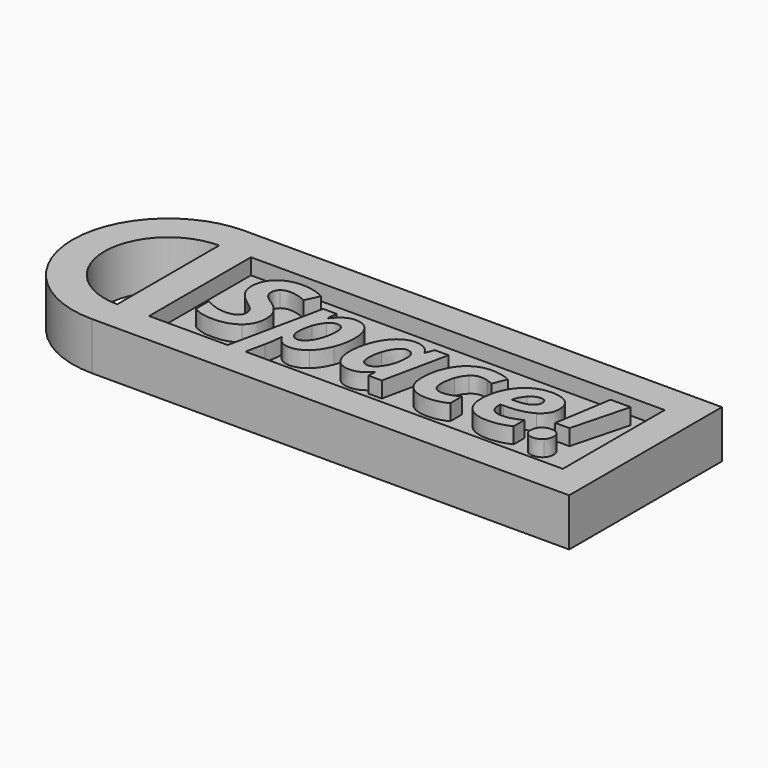
from build123d import *

# Parameters (mm, degrees)
F1_DEPTH = 3
F3_DEPTH = 1


with BuildPart() as f1:
    # F0 (on Top) → F1 (new body)
    with BuildSketch(Plane.XY):
        with BuildLine():
            ThreePointArc((0, 12), (-6, 6), (0, 0))
            Line((0, 0), (0, 2))
            ThreePointArc((0, 2), (-4, 6), (0, 10))
            Line((0, 10), (0, 12))
        make_face()
        with BuildLine():
            Line((0, 2), (0, 0))
            Line((0, 0), (30, 0))
            Line((30, 0), (30, 12))
            Line((30, 12), (0, 12))
            Line((0, 12), (0, 10))
            ThreePointArc((0, 10), (2.8284271247, 8.8284271247), (4, 6))
            ThreePointArc((4, 6), (2.8284271247, 3.1715728753), (0, 2))
        make_face()
        with BuildLine():
            Line((0, 10), (0, 2))
            ThreePointArc((0, 2), (2.8284271247, 3.1715728753), (4, 6))
            ThreePointArc((4, 6), (2.8284271247, 8.8284271247), (0, 10))
        make_face()
    extrude(amount=F1_DEPTH)


with BuildPart() as f3:
    # F2 (on face) → F3 (new body)
    with BuildSketch(Plane.XY.offset(3)):
        with BuildLine():
            Line((28.0002027975, 10), (2, 10))
            Line((2, 10), (2, 2))
            Line((2, 2), (6.9363087527, 2))
            Line((6.9363087527, 2), (8.1953882392, 7.9267427279))
            Line((8.1953882392, 7.9267427279), (9.0481484243, 7.9267427279))
            Line((9.0481484243, 7.9267427279), (8.9852884941, 7.2969573895))
            Line((8.9852884941, 7.2969573895), (9.0184975138, 7.2969573895))
            add(Edge.make_bspline(
                [(9.0184975138, 7.2969573895), (9.5296792103, 8.0038350951), (10.1938596047, 8.0038350951)],
                knots=[0, 0, 0, 1, 1, 1], degree=2))
            add(Edge.make_bspline(
                [(10.1938596047, 8.0038350951), (10.7346922117, 8.0038350951), (11.0478058262, 7.6059198766)],
                knots=[0, 0, 0, 1, 1, 1], degree=2))
            add(Edge.make_bspline(
                [(11.0478058262, 7.6059198766), (11.3609194408, 7.2080046581), (11.3609194408, 6.4916386612)],
                knots=[0, 0, 0, 1, 1, 1], degree=2))
            add(Edge.make_bspline(
                [(11.3609194408, 6.4916386612), (11.3609194408, 5.7847609557), (11.1071076471, 5.1300688525)],
                knots=[0, 0, 0, 1, 1, 1], degree=2))
            add(Edge.make_bspline(
                [(11.1071076471, 5.1300688525), (10.8532958535, 4.4753767494), (10.4120903058, 4.091693968)],
                knots=[0, 0, 0, 1, 1, 1], degree=2))
            add(Edge.make_bspline(
                [(10.4120903058, 4.091693968), (9.970884758, 3.7080111865), (9.4407264789, 3.7080111865)],
                knots=[0, 0, 0, 1, 1, 1], degree=2))
            add(Edge.make_bspline(
                [(9.4407264789, 3.7080111865), (9.1335430464, 3.7080111865), (8.9111612179, 3.8455914111)],
                knots=[0, 0, 0, 1, 1, 1], degree=2))
            add(Edge.make_bspline(
                [(8.9111612179, 3.8455914111), (8.6887793894, 3.9831716357), (8.5001995988, 4.3128897601)],
                knots=[0, 0, 0, 1, 1, 1], degree=2))
            Line((8.5001995988, 4.3128897601), (8.4705486884, 4.3128897601))
            add(Edge.make_bspline(
                [(8.4705486884, 4.3128897601), (8.4254793045, 3.72342966), (8.3104337718, 3.219364182)],
                knots=[0, 0, 0, 1, 1, 1], degree=2))
            Line((8.3104337718, 3.219364182), (8.0523369318, 2))
            Line((8.0523369318, 2), (28.0002027975, 2))
            Line((28.0002027975, 2), (28.0002027975, 10))
        make_face()
        with BuildLine():
            add(Edge.make_bspline(
                [(14.3853123085, 4.3200059786), (13.888363049, 3.7080111865), (13.202833999, 3.7080111865)],
                knots=[0, 0, 0, 1, 1, 1], degree=2))
            add(Edge.make_bspline(
                [(13.202833999, 3.7080111865), (12.6572572464, 3.7080111865), (12.3441436319, 4.1029613139)],
                knots=[0, 0, 0, 1, 1, 1], degree=2))
            add(Edge.make_bspline(
                [(12.3441436319, 4.1029613139), (12.0310300173, 4.4979114414), (12.0310300173, 5.2095332926)],
                knots=[0, 0, 0, 1, 1, 1], degree=2))
            add(Edge.make_bspline(
                [(12.0310300173, 5.2095332926), (12.0310300173, 5.9436898358), (12.2978882115, 6.6090562667)],
                knots=[0, 0, 0, 1, 1, 1], degree=2))
            add(Edge.make_bspline(
                [(12.2978882115, 6.6090562667), (12.5647464057, 7.2744226976), (12.998835735, 7.6391288963)],
                knots=[0, 0, 0, 1, 1, 1], degree=2))
            add(Edge.make_bspline(
                [(12.998835735, 7.6391288963), (13.4329250642, 8.0038350951), (13.9512229792, 8.0038350951)],
                knots=[0, 0, 0, 1, 1, 1], degree=2))
            add(Edge.make_bspline(
                [(13.9512229792, 8.0038350951), (14.3105920141, 8.0038350951), (14.5721130444, 7.8484643242)],
                knots=[0, 0, 0, 1, 1, 1], degree=2))
            add(Edge.make_bspline(
                [(14.5721130444, 7.8484643242), (14.8336340747, 7.6930935534), (14.9783305178, 7.3965844487)],
                knots=[0, 0, 0, 1, 1, 1], degree=2))
            Line((14.9783305178, 7.3965844487), (15.0079814283, 7.3965844487))
            Line((15.0079814283, 7.3965844487), (15.2190959108, 7.9267427279))
            Line((15.2190959108, 7.9267427279), (16.0789723144, 7.9267427279))
            Line((16.0789723144, 7.9267427279), (15.1965612188, 3.7827314809))
            Line((15.1965612188, 3.7827314809), (14.3473591431, 3.7827314809))
            Line((14.3473591431, 3.7827314809), (14.3995447455, 4.3200059786))
            Line((14.3995447455, 4.3200059786), (14.3853123085, 4.3200059786))
        make_face(mode=Mode.SUBTRACT)
        with BuildLine():
            add(Edge.make_bspline(
                [(19.3287121016, 4.0009621819), (18.7653448027, 3.7080111865), (18.083373862, 3.7080111865)],
                knots=[0, 0, 0, 1, 1, 1], degree=2))
            add(Edge.make_bspline(
                [(18.083373862, 3.7080111865), (17.338542991, 3.7080111865), (16.9400347543, 4.1065194232)],
                knots=[0, 0, 0, 1, 1, 1], degree=2))
            add(Edge.make_bspline(
                [(16.9400347543, 4.1065194232), (16.5415265177, 4.5050276599), (16.5415265177, 5.2320679846)],
                knots=[0, 0, 0, 1, 1, 1], degree=2))
            add(Edge.make_bspline(
                [(16.5415265177, 5.2320679846), (16.5415265177, 6.0172240937), (16.8178730032, 6.6606488509)],
                knots=[0, 0, 0, 1, 1, 1], degree=2))
            add(Edge.make_bspline(
                [(16.8178730032, 6.6606488509), (17.0942194888, 7.304073608), (17.5947268575, 7.6539543516)],
                knots=[0, 0, 0, 1, 1, 1], degree=2))
            add(Edge.make_bspline(
                [(17.5947268575, 7.6539543516), (18.0952342262, 8.0038350951), (18.7356938923, 8.0038350951)],
                knots=[0, 0, 0, 1, 1, 1], degree=2))
            add(Edge.make_bspline(
                [(18.7356938923, 8.0038350951), (19.4105486145, 8.0038350951), (19.9513812214, 7.7369769009)],
                knots=[0, 0, 0, 1, 1, 1], degree=2))
            Line((19.9513812214, 7.7369769009), (19.6109887693, 6.8889608615))
            add(Edge.make_bspline(
                [(19.6109887693, 6.8889608615), (19.4105486145, 6.9743554836), (19.2178176965, 7.0372154138)],
                knots=[0, 0, 0, 1, 1, 1], degree=2))
            add(Edge.make_bspline(
                [(19.2178176965, 7.0372154138), (19.0250867784, 7.100075344), (18.7807632762, 7.100075344)],
                knots=[0, 0, 0, 1, 1, 1], degree=2))
            add(Edge.make_bspline(
                [(18.7807632762, 7.100075344), (18.4652775888, 7.100075344), (18.2114657952, 6.8628680603)],
                knots=[0, 0, 0, 1, 1, 1], degree=2))
            add(Edge.make_bspline(
                [(18.2114657952, 6.8628680603), (17.9576540016, 6.6256607765), (17.8147366131, 6.2123270846)],
                knots=[0, 0, 0, 1, 1, 1], degree=2))
            add(Edge.make_bspline(
                [(17.8147366131, 6.2123270846), (17.6718192247, 5.7989933927), (17.6718192247, 5.3245788252)],
                knots=[0, 0, 0, 1, 1, 1], degree=2))
            add(Edge.make_bspline(
                [(17.6718192247, 5.3245788252), (17.6718192247, 4.9687678996), (17.8408294144, 4.7890833822)],
                knots=[0, 0, 0, 1, 1, 1], degree=2))
            add(Edge.make_bspline(
                [(17.8408294144, 4.7890833822), (18.009839604, 4.6093988647), (18.309906818, 4.6093988647)],
                knots=[0, 0, 0, 1, 1, 1], degree=2))
            add(Edge.make_bspline(
                [(18.309906818, 4.6093988647), (18.5909974492, 4.6093988647), (18.8323558604, 4.6965725415)],
                knots=[0, 0, 0, 1, 1, 1], degree=2))
            add(Edge.make_bspline(
                [(18.8323558604, 4.6965725415), (19.0737142716, 4.7837462183), (19.3287121016, 4.9130241879)],
                knots=[0, 0, 0, 1, 1, 1], degree=2))
            Line((19.3287121016, 4.9130241879), (19.3287121016, 4.0009621819))
        make_face(mode=Mode.SUBTRACT)
        with BuildLine():
            add(Edge.make_bspline(
                [(24.3480182256, 3.8218706827), (24.196205564, 3.9606369437), (24.196205564, 4.2085185552)],
                knots=[0, 0, 0, 1, 1, 1], degree=2))
            add(Edge.make_bspline(
                [(24.196205564, 4.2085185552), (24.196205564, 4.5429808253), (24.3948666641, 4.7428279618)],
                knots=[0, 0, 0, 1, 1, 1], degree=2))
            add(Edge.make_bspline(
                [(24.3948666641, 4.7428279618), (24.5935277643, 4.9426750984), (24.9528967991, 4.9426750984)],
                knots=[0, 0, 0, 1, 1, 1], degree=2))
            add(Edge.make_bspline(
                [(24.9528967991, 4.9426750984), (25.2043365199, 4.9426750984), (25.3561491815, 4.8021297828)],
                knots=[0, 0, 0, 1, 1, 1], degree=2))
            add(Edge.make_bspline(
                [(25.3561491815, 4.8021297828), (25.5079618431, 4.6615844672), (25.5079618431, 4.4054006007)],
                knots=[0, 0, 0, 1, 1, 1], degree=2))
            add(Edge.make_bspline(
                [(25.5079618431, 4.4054006007), (25.5079618431, 4.0827986948), (25.3045565973, 3.8829515583)],
                knots=[0, 0, 0, 1, 1, 1], degree=2))
            add(Edge.make_bspline(
                [(25.3045565973, 3.8829515583), (25.1011513515, 3.6831044217), (24.7714332271, 3.6831044217)],
                knots=[0, 0, 0, 1, 1, 1], degree=2))
            add(Edge.make_bspline(
                [(24.7714332271, 3.6831044217), (24.4998308872, 3.6831044217), (24.3480182256, 3.8218706827)],
                knots=[0, 0, 0, 1, 1, 1], degree=2))
        make_face(mode=Mode.SUBTRACT)
        with BuildLine():
            add(Edge.make_bspline(
                [(23.2912597765, 4.0270549831), (22.6543582197, 3.7080111865), (21.8466674185, 3.7080111865)],
                knots=[0, 0, 0, 1, 1, 1], degree=2))
            add(Edge.make_bspline(
                [(21.8466674185, 3.7080111865), (21.0674414914, 3.7080111865), (20.6375032897, 4.1272750605)],
                knots=[0, 0, 0, 1, 1, 1], degree=2))
            add(Edge.make_bspline(
                [(20.6375032897, 4.1272750605), (20.2075650879, 4.5465389345), (20.2075650879, 5.3103463882)],
                knots=[0, 0, 0, 1, 1, 1], degree=2))
            add(Edge.make_bspline(
                [(20.2075650879, 5.3103463882), (20.2075650879, 6.0765259147), (20.5135624839, 6.7086833258)],
                knots=[0, 0, 0, 1, 1, 1], degree=2))
            add(Edge.make_bspline(
                [(20.5135624839, 6.7086833258), (20.8195598799, 7.340840737), (21.3420089224, 7.672337916)],
                knots=[0, 0, 0, 1, 1, 1], degree=2))
            add(Edge.make_bspline(
                [(21.3420089224, 7.672337916), (21.8644579648, 8.0038350951), (22.5238942136, 8.0038350951)],
                knots=[0, 0, 0, 1, 1, 1], degree=2))
            add(Edge.make_bspline(
                [(22.5238942136, 8.0038350951), (23.1809583896, 8.0038350951), (23.547443643, 7.7019888265)],
                knots=[0, 0, 0, 1, 1, 1], degree=2))
            add(Edge.make_bspline(
                [(23.547443643, 7.7019888265), (23.9139288963, 7.400142558), (23.9139288963, 6.873542388)],
                knots=[0, 0, 0, 1, 1, 1], degree=2))
            add(Edge.make_bspline(
                [(23.9139288963, 6.873542388), (23.9139288963, 6.1808971195), (23.295410904, 5.8049235748)],
                knots=[0, 0, 0, 1, 1, 1], degree=2))
            add(Edge.make_bspline(
                [(23.295410904, 5.8049235748), (22.6768929116, 5.4289500301), (21.5276236219, 5.4289500301)],
                knots=[0, 0, 0, 1, 1, 1], degree=2))
            Line((21.5276236219, 5.4289500301), (21.3378577949, 5.4289500301))
            Line((21.3378577949, 5.4289500301), (21.3307415764, 5.3506716264))
            Line((21.3307415764, 5.3506716264), (21.3307415764, 5.275951332))
            add(Edge.make_bspline(
                [(21.3307415764, 5.275951332), (21.3307415764, 4.9391169891), (21.5216934398, 4.7446070165)],
                knots=[0, 0, 0, 1, 1, 1], degree=2))
            add(Edge.make_bspline(
                [(21.5216934398, 4.7446070165), (21.7126453032, 4.5500970438), (22.0684562288, 4.5500970438)],
                knots=[0, 0, 0, 1, 1, 1], degree=2))
            add(Edge.make_bspline(
                [(22.0684562288, 4.5500970438), (22.3910581347, 4.5500970438), (22.6543582197, 4.6206662107)],
                knots=[0, 0, 0, 1, 1, 1], degree=2))
            add(Edge.make_bspline(
                [(22.6543582197, 4.6206662107), (22.9176583046, 4.6912353776), (23.2912597765, 4.8691408404)],
                knots=[0, 0, 0, 1, 1, 1], degree=2))
            Line((23.2912597765, 4.8691408404), (23.2912597765, 4.0270549831))
        make_face(mode=Mode.SUBTRACT)
        with BuildLine():
            add(Edge.make_bspline(
                [(6.4418333942, 6.2194433031), (6.6642152227, 5.8618533229), (6.6642152227, 5.3838806461)],
                knots=[0, 0, 0, 1, 1, 1], degree=2))
            add(Edge.make_bspline(
                [(6.6642152227, 5.3838806461), (6.6642152227, 4.6093988647), (6.115673379, 4.1587050256)],
                knots=[0, 0, 0, 1, 1, 1], degree=2))
            add(Edge.make_bspline(
                [(6.115673379, 4.1587050256), (5.5671315354, 3.7080111865), (4.6301627646, 3.7080111865)],
                knots=[0, 0, 0, 1, 1, 1], degree=2))
            add(Edge.make_bspline(
                [(4.6301627646, 3.7080111865), (3.8106115993, 3.7080111865), (3.3101042306, 4.0424734566)],
                knots=[0, 0, 0, 1, 1, 1], degree=2))
            Line((3.3101042306, 4.0424734566), (3.3101042306, 5.057720631))
            add(Edge.make_bspline(
                [(3.3101042306, 5.057720631), (4.0252841911, 4.6580263579), (4.6372789831, 4.6580263579)],
                knots=[0, 0, 0, 1, 1, 1], degree=2))
            add(Edge.make_bspline(
                [(4.6372789831, 4.6580263579), (5.0523917297, 4.6580263579), (5.2860409041, 4.8151761834)],
                knots=[0, 0, 0, 1, 1, 1], degree=2))
            add(Edge.make_bspline(
                [(5.2860409041, 4.8151761834), (5.5196900786, 4.9723260089), (5.5196900786, 5.2463004216)],
                knots=[0, 0, 0, 1, 1, 1], degree=2))
            add(Edge.make_bspline(
                [(5.5196900786, 5.2463004216), (5.5196900786, 5.4064153381), (5.4692835308, 5.5267980346)],
                knots=[0, 0, 0, 1, 1, 1], degree=2))
            add(Edge.make_bspline(
                [(5.4692835308, 5.5267980346), (5.418876983, 5.6471807311), (5.3263661424, 5.7509589177)],
                knots=[0, 0, 0, 1, 1, 1], degree=2))
            add(Edge.make_bspline(
                [(5.3263661424, 5.7509589177), (5.2338553017, 5.8547371044), (4.8673700483, 6.1287115171)],
                knots=[0, 0, 0, 1, 1, 1], degree=2))
            add(Edge.make_bspline(
                [(4.8673700483, 6.1287115171), (4.3550023155, 6.4963828069), (4.1474459422, 6.8557518418)],
                knots=[0, 0, 0, 1, 1, 1], degree=2))
            add(Edge.make_bspline(
                [(4.1474459422, 6.8557518418), (3.9398895689, 7.2151208766), (3.9398895689, 7.6302336232)],
                knots=[0, 0, 0, 1, 1, 1], degree=2))
            add(Edge.make_bspline(
                [(3.9398895689, 7.6302336232), (3.9398895689, 8.1082062999), (4.1699806341, 8.4841798446)],
                knots=[0, 0, 0, 1, 1, 1], degree=2))
            add(Edge.make_bspline(
                [(4.1699806341, 8.4841798446), (4.4000716994, 8.8601533894), (4.8246727373, 9.0694888173)],
                knots=[0, 0, 0, 1, 1, 1], degree=2))
            add(Edge.make_bspline(
                [(4.8246727373, 9.0694888173), (5.2492737752, 9.2788242452), (5.8007807099, 9.2788242452)],
                knots=[0, 0, 0, 1, 1, 1], degree=2))
            add(Edge.make_bspline(
                [(5.8007807099, 9.2788242452), (6.6049134017, 9.2788242452), (7.2726519055, 8.9123389918)],
                knots=[0, 0, 0, 1, 1, 1], degree=2))
            Line((7.2726519055, 8.9123389918), (6.8682134867, 8.048904479))
            add(Edge.make_bspline(
                [(6.8682134867, 8.048904479), (6.2906137508, 8.3228788917), (5.8007807099, 8.3228788917)],
                knots=[0, 0, 0, 1, 1, 1], degree=2))
            add(Edge.make_bspline(
                [(5.8007807099, 8.3228788917), (5.4935972774, 8.3228788917), (5.2973082501, 8.1562407749)],
                knots=[0, 0, 0, 1, 1, 1], degree=2))
            add(Edge.make_bspline(
                [(5.2973082501, 8.1562407749), (5.1010192228, 7.989602658), (5.1010192228, 7.7156282453)],
                knots=[0, 0, 0, 1, 1, 1], degree=2))
            add(Edge.make_bspline(
                [(5.1010192228, 7.7156282453), (5.1010192228, 7.4890952894), (5.2231809739, 7.3206781179)],
                knots=[0, 0, 0, 1, 1, 1], degree=2))
            add(Edge.make_bspline(
                [(5.2231809739, 7.3206781179), (5.3453427251, 7.1522609464), (5.7711297994, 6.873542388)],
                knots=[0, 0, 0, 1, 1, 1], degree=2))
            add(Edge.make_bspline(
                [(5.7711297994, 6.873542388), (6.2194515657, 6.5770332834), (6.4418333942, 6.2194433031)],
                knots=[0, 0, 0, 1, 1, 1], degree=2))
        make_face(mode=Mode.SUBTRACT)
        Polygon((26.501860362, 9.201731878), (25.553031227, 5.5807626917), (24.6599458037, 5.5807626917), (25.2411036489, 9.201731878), align=None, mode=Mode.SUBTRACT)
    extrude(amount=-F3_DEPTH)


with BuildPart() as f3b:
    # F2 (on face) → F3, piece 2 (new body)
    with BuildSketch(Plane.XY.offset(3)):
        with BuildLine():
            add(Edge.make_bspline(
                [(10.2306267337, 6.4477553137), (10.2306267337, 7.100075344), (9.7455378385, 7.100075344)],
                knots=[0, 0, 0, 1, 1, 1], degree=2))
            add(Edge.make_bspline(
                [(9.7455378385, 7.100075344), (9.4929120813, 7.100075344), (9.2574838522, 6.8498216597)],
                knots=[0, 0, 0, 1, 1, 1], degree=2))
            add(Edge.make_bspline(
                [(9.2574838522, 6.8498216597), (9.0220556231, 6.5995679753), (8.8797312528, 6.1826761741)],
                knots=[0, 0, 0, 1, 1, 1], degree=2))
            add(Edge.make_bspline(
                [(8.8797312528, 6.1826761741), (8.7374068826, 5.765784373), (8.7374068826, 5.261718895)],
                knots=[0, 0, 0, 1, 1, 1], degree=2))
            add(Edge.make_bspline(
                [(8.7374068826, 5.261718895), (8.7374068826, 4.9652097903), (8.8743940889, 4.7873043275)],
                knots=[0, 0, 0, 1, 1, 1], degree=2))
            add(Edge.make_bspline(
                [(8.8743940889, 4.7873043275), (9.0113812953, 4.6093988647), (9.2521466883, 4.6093988647)],
                knots=[0, 0, 0, 1, 1, 1], degree=2))
            add(Edge.make_bspline(
                [(9.2521466883, 4.6093988647), (9.5000282998, 4.6093988647), (9.7265612558, 4.864989713)],
                knots=[0, 0, 0, 1, 1, 1], degree=2))
            add(Edge.make_bspline(
                [(9.7265612558, 4.864989713), (9.9530942117, 5.1205805612), (10.0918604727, 5.5671232728)],
                knots=[0, 0, 0, 1, 1, 1], degree=2))
            add(Edge.make_bspline(
                [(10.0918604727, 5.5671232728), (10.2306267337, 6.0136659845), (10.2306267337, 6.4477553137)],
                knots=[0, 0, 0, 1, 1, 1], degree=2))
        make_face()
    extrude(amount=-F3_DEPTH)


with BuildPart() as f3c:
    # F2 (on face) → F3, piece 3 (new body)
    with BuildSketch(Plane.XY.offset(3)):
        with BuildLine():
            add(Edge.make_bspline(
                [(13.2858565483, 4.7724788723), (13.4103903723, 4.6093988647), (13.6404814375, 4.6093988647)],
                knots=[0, 0, 0, 1, 1, 1], degree=2))
            add(Edge.make_bspline(
                [(13.6404814375, 4.6093988647), (13.8954792675, 4.6093988647), (14.1326865513, 4.8578734945)],
                knots=[0, 0, 0, 1, 1, 1], degree=2))
            add(Edge.make_bspline(
                [(14.1326865513, 4.8578734945), (14.369893835, 5.1063481242), (14.5145902781, 5.5303561439)],
                knots=[0, 0, 0, 1, 1, 1], degree=2))
            add(Edge.make_bspline(
                [(14.5145902781, 5.5303561439), (14.6592867212, 5.9543641635), (14.6592867212, 6.4916386612)],
                knots=[0, 0, 0, 1, 1, 1], degree=2))
            add(Edge.make_bspline(
                [(14.6592867212, 6.4916386612), (14.6592867212, 6.7549387462), (14.5163693327, 6.9275070451)],
                knots=[0, 0, 0, 1, 1, 1], degree=2))
            add(Edge.make_bspline(
                [(14.5163693327, 6.9275070451), (14.3734519443, 7.100075344), (14.1398027698, 7.100075344)],
                knots=[0, 0, 0, 1, 1, 1], degree=2))
            add(Edge.make_bspline(
                [(14.1398027698, 7.100075344), (13.888363049, 7.100075344), (13.6606440566, 6.8332171498)],
                knots=[0, 0, 0, 1, 1, 1], degree=2))
            add(Edge.make_bspline(
                [(13.6606440566, 6.8332171498), (13.4329250642, 6.5663589556), (13.2971238943, 6.1287115171)],
                knots=[0, 0, 0, 1, 1, 1], degree=2))
            add(Edge.make_bspline(
                [(13.2971238943, 6.1287115171), (13.1613227243, 5.6910640786), (13.1613227243, 5.261718895)],
                knots=[0, 0, 0, 1, 1, 1], degree=2))
            add(Edge.make_bspline(
                [(13.1613227243, 5.261718895), (13.1613227243, 4.9355588799), (13.2858565483, 4.7724788723)],
                knots=[0, 0, 0, 1, 1, 1], degree=2))
        make_face()
    extrude(amount=-F3_DEPTH)


with BuildPart() as f3d:
    # F2 (on face) → F3, piece 4 (new body)
    with BuildSketch(Plane.XY.offset(3)):
        with BuildLine():
            add(Edge.make_bspline(
                [(22.8429380102, 6.8474495868), (22.8429380102, 7.1997024032), (22.4539180649, 7.1997024032)],
                knots=[0, 0, 0, 1, 1, 1], degree=2))
            add(Edge.make_bspline(
                [(22.4539180649, 7.1997024032), (22.1277580498, 7.1997024032), (21.8389581818, 6.9031932985)],
                knots=[0, 0, 0, 1, 1, 1], degree=2))
            add(Edge.make_bspline(
                [(21.8389581818, 6.9031932985), (21.5501583139, 6.6066841938), (21.4612055825, 6.1808971195)],
                knots=[0, 0, 0, 1, 1, 1], degree=2))
            Line((21.4612055825, 6.1808971195), (21.6272506811, 6.1808971195))
            add(Edge.make_bspline(
                [(21.6272506811, 6.1808971195), (22.2024783441, 6.1808971195), (22.5227081772, 6.360581637)],
                knots=[0, 0, 0, 1, 1, 1], degree=2))
            add(Edge.make_bspline(
                [(22.5227081772, 6.360581637), (22.8429380102, 6.5402661544), (22.8429380102, 6.8474495868)],
                knots=[0, 0, 0, 1, 1, 1], degree=2))
        make_face()
    extrude(amount=-F3_DEPTH)


with BuildPart() as f1_1:
    add(f1.part)

    # F4: cut F3c, F3b, F3d, F3
    add(f3c.part, mode=Mode.SUBTRACT)
    add(f3b.part, mode=Mode.SUBTRACT)
    add(f3d.part, mode=Mode.SUBTRACT)
    add(f3.part, mode=Mode.SUBTRACT)


solid = f1_1.part
